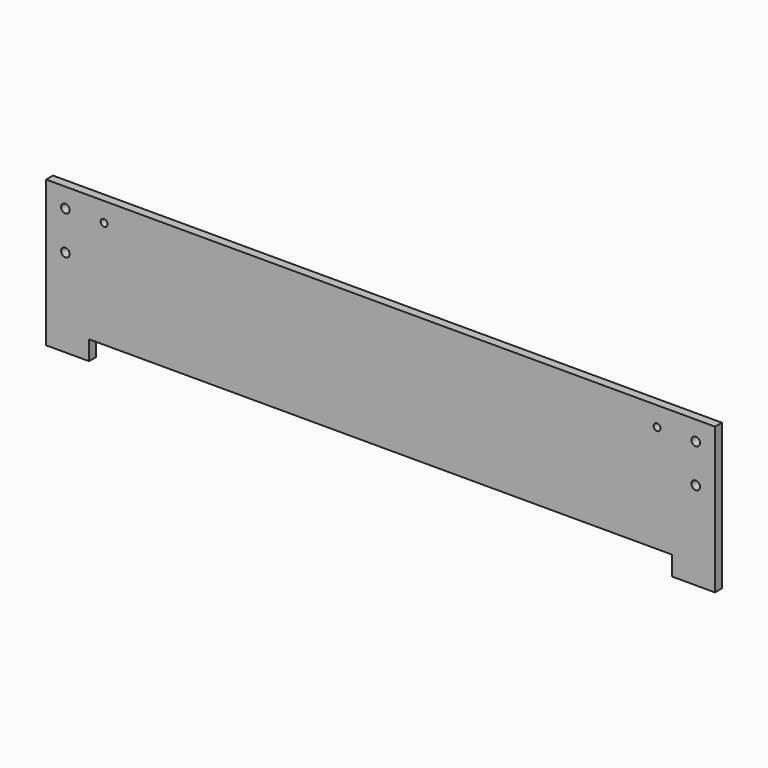
from build123d import *

# Parameters (mm, degrees)
F0_R     = 5
F0_R_2   = 4
F1_DEPTH = 10


with BuildPart() as f1:
    # F0 (on Front) → F1 (new body)
    with BuildSketch(Plane.XZ):
        Polygon((389.5, -80), (389.5, 80), (-389.5, 80), (-389.5, -80), (-389.5, -90), (-339.5, -90), (-339.5, -80), (-339.5, -67.5), (339.5, -67.5), (339.5, -80), (339.5, -90), (389.5, -90), align=None)
        with Locations((-367, 12.5)):
            Circle(F0_R, mode=Mode.SUBTRACT)
        with Locations((-367, 57.5)):
            Circle(F0_R, mode=Mode.SUBTRACT)
        with Locations((-322, 57.5)):
            Circle(F0_R_2, mode=Mode.SUBTRACT)
        with Locations((367, 12.5)):
            Circle(F0_R, mode=Mode.SUBTRACT)
        with Locations((322, 57.5)):
            Circle(F0_R_2, mode=Mode.SUBTRACT)
        with Locations((367, 57.5)):
            Circle(F0_R, mode=Mode.SUBTRACT)
    extrude(amount=F1_DEPTH)


solid = f1.part
